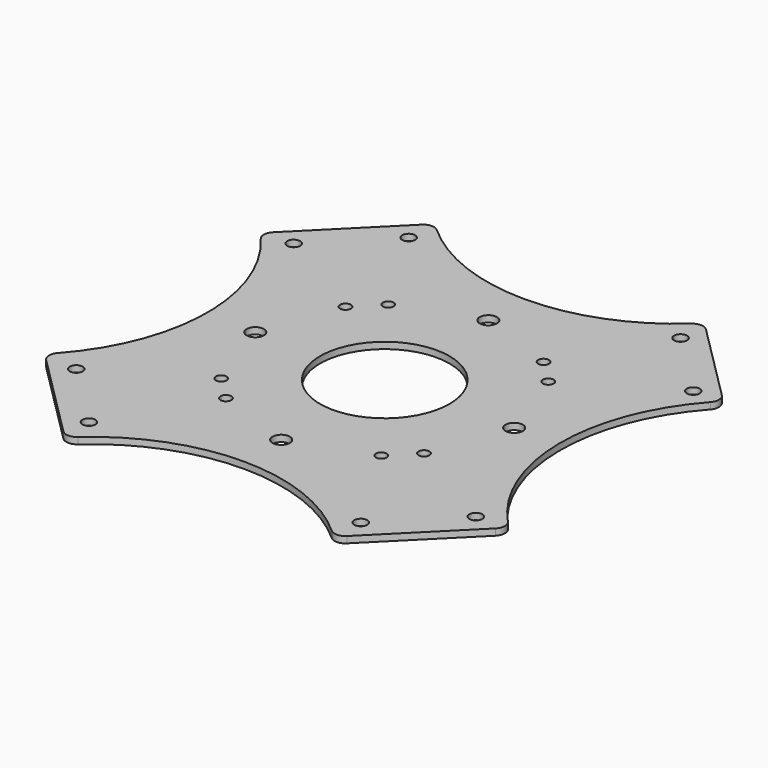
from build123d import *

# Parameters (mm, degrees)
SKETCH010_R                               = 1.25
EXTRUDE009_DEPTH                          = 1.5
SKETCH009_R                               = 2
SKETCH009_R_2                             = 15
EXTRUDE008_DEPTH                          = 1.5
SKETCH008_R                               = 1.5
EXTRUDE007_DEPTH                          = 1.5
EXTRUDE006_DEPTH                          = 1.5
EXTRUDE006_ONTO_SKETCH007_PLACEMENT_ANGLE = 90.001496
FILLET_R                                  = 2.5


with BuildPart() as obj1:
    # Sketch010 (on Face2 of Cut002) → Extrude009 (new body)
    with BuildSketch(Plane(origin=(0, 0, 39.25), x_dir=(1, 0, 0), z_dir=(0, 0, -1))):
        with Locations((-18, -23.5)):
            Circle(SKETCH010_R)
        with Locations((18, -23.5)):
            Circle(SKETCH010_R)
        with Locations((18, 23.5)):
            Circle(SKETCH010_R)
        with Locations((-18, 23.5)):
            Circle(SKETCH010_R)
        with Locations((23.5, -18)):
            Circle(SKETCH010_R)
        with Locations((23.5, 18)):
            Circle(SKETCH010_R)
        with Locations((-23.5, -18)):
            Circle(SKETCH010_R)
        with Locations((-23.5, 18)):
            Circle(SKETCH010_R)
    extrude(amount=EXTRUDE009_DEPTH)


with BuildPart() as obj1_1:
    # Extrude009 placement: moved
    add(obj1.part.moved(Location((0, 0, -38.5))))


with BuildPart() as pcb_mount_holes_bot:
    # Sketch009 (on Face4 of Cut001) → Extrude008 (new body)
    with BuildSketch(Plane.XY.offset(41)):
        with Locations((0, -30)):
            Circle(SKETCH009_R)
        with Locations((-30, 0)):
            Circle(SKETCH009_R)
        with Locations((0, 30)):
            Circle(SKETCH009_R)
        with Locations((30, 0)):
            Circle(SKETCH009_R)
        Circle(SKETCH009_R_2)
    extrude(amount=EXTRUDE008_DEPTH)


with BuildPart() as pcb_mount_holes_bot_1:
    # Extrude008 placement: moved
    add(pcb_mount_holes_bot.part.moved(Location((0, 0, -41.75))))


with BuildPart() as new_bottom_plate_holes:
    # Sketch008 (on Face10 of Extrude006) → Extrude007 (new body)
    with BuildSketch(Plane.XY.offset(0.75)):
        with Locations((31.5, -46.3)):
            Circle(SKETCH008_R)
        with Locations((-31.5, -46.3)):
            Circle(SKETCH008_R)
        with Locations((46.3, -31.5)):
            Circle(SKETCH008_R)
        with Locations((-46.3, -31.5)):
            Circle(SKETCH008_R)
        with Locations((46.3, 31.5)):
            Circle(SKETCH008_R)
        with Locations((-46.3, 31.5)):
            Circle(SKETCH008_R)
        with Locations((-31.5, 46.3)):
            Circle(SKETCH008_R)
        with Locations((31.5, 46.3)):
            Circle(SKETCH008_R)
    extrude(amount=EXTRUDE007_DEPTH)


with BuildPart() as new_bottom_plate_holes_1:
    # Extrude007 placement: moved
    add(new_bottom_plate_holes.part.moved(Location((0, 0, -1.5))))


with BuildPart() as bottom_plate_new:
    # Sketch007 as drawn → Extrude006 (new)
    with BuildSketch(Plane.XY):
        with BuildLine():
            Line((-54.41461, 31.12), (-31.098088, 54.458425))
            ThreePointArc((-31.098088, 54.458425), (-0.589258, 41.589673), (30.25328, 53.63672))
            Line((52.777302, 31.112698), (30.25328, 53.63672))
            ThreePointArc((52.777302, 31.112698), (39.890076, -0.081699), (52.893056, -31.228024))
            Line((31.098088, -53.043466), (52.893056, -31.228024))
            ThreePointArc((31.098088, -53.043466), (-0.487382, -40.173467), (-31.78, -53.74))
            Line((-31.78, -53.74), (-54.4, -31.12))
            ThreePointArc((-54.4, -31.12), (-41.5127, 0.003027), (-54.41461, 31.12))
        make_face()
    extrude(amount=EXTRUDE006_DEPTH)


with BuildPart() as bottom_plate_new_1:
    # Extrude006 onto Sketch007 placement: moved
    add(bottom_plate_new.part.moved(Location((-0.000606, 0.67074, -0.75))).rotate(Axis((-0.000606, 0.67074, -0.75), (0, 0, 1)), EXTRUDE006_ONTO_SKETCH007_PLACEMENT_ANGLE))

    # Cut005: cut new_bottom_plate_holes
    add(new_bottom_plate_holes_1.part, mode=Mode.SUBTRACT)

    # Cut006: cut pcb_mount_holes_bot
    add(pcb_mount_holes_bot_1.part, mode=Mode.SUBTRACT)

    # Cut007: cut obj1
    add(obj1_1.part, mode=Mode.SUBTRACT)

    # Fillet
    fillet_edges = [bottom_plate_new_1.edges().sort_by_distance(p)[0] for p in [
        (53.042048, 31.770213, 0),
        (53.740224, -31.107857, 0),
        (31.226037, 53.564611, 0),
        (31.120814, -53.728448, 0),
        (-31.114682, 53.447229, 0),
        (-31.119185, -53.744683, 0),
        (-53.638116, 30.92262, 0),
        (-54.458219, -30.42877, 0),
    ]]
    fillet(fillet_edges, radius=FILLET_R)


solid = bottom_plate_new_1.part
